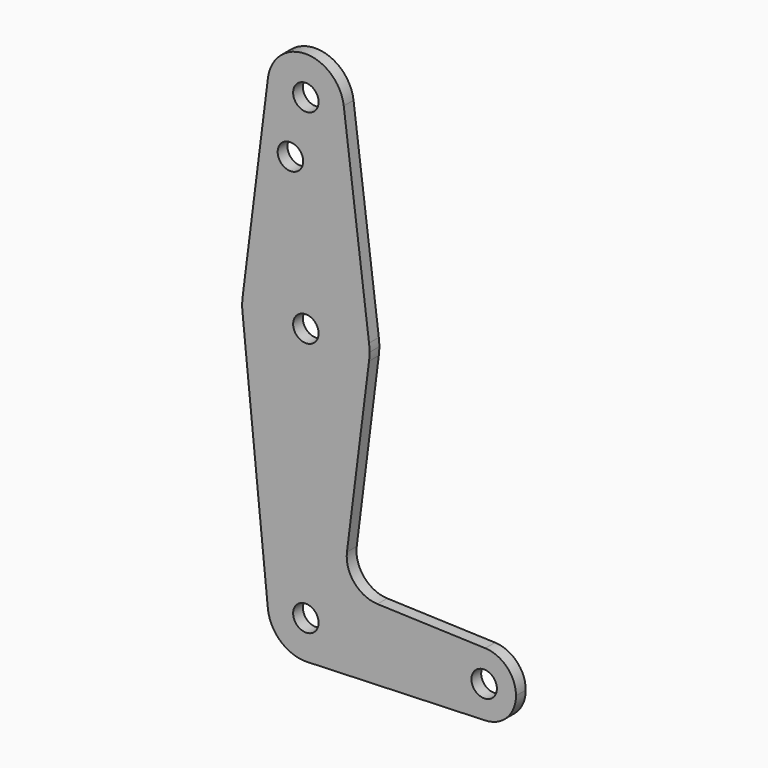
from build123d import *

# Parameters (mm, degrees)
F0_R     = 3.175
F1_DEPTH = 3.048


with BuildPart() as f1:
    # F0 (on Front) → F1 (new body)
    with BuildSketch(Plane.XZ):
        with BuildLine():
            ThreePointArc((-27.487503, 57.257114), (-37.608986, 47.75081), (-46.462796, 58.447739))
            Line((-46.462796, 58.447739), (-52.762991, 8.441489))
            ThreePointArc((-52.762991, 8.441489), (-37.012503, 22.332114), (-21.262015, 8.441489))
            Line((-21.262015, 8.441489), (-27.56221, 58.447739))
            ThreePointArc((-27.56221, 58.447739), (-27.506198, 57.853598), (-27.487503, 57.257114))
        make_face()
        with Locations((-40.86617, 42.982314)):
            Circle(F0_R, mode=Mode.SUBTRACT)
        with BuildLine():
            ThreePointArc((-21.262015, 8.441489), (-37.012503, 22.332114), (-52.762991, 8.441489))
            ThreePointArc((-52.762991, 8.441489), (-52.887503, 6.457114), (-52.762991, 4.472739))
            ThreePointArc((-52.762991, 4.472739), (-37.012503, -9.417886), (-21.262015, 4.472739))
            ThreePointArc((-21.262015, 4.472739), (-21.168661, 5.462976), (-21.137503, 6.457114))
            ThreePointArc((-21.137503, 6.457114), (-21.168661, 7.451253), (-21.262015, 8.441489))
        make_face()
        with Locations((-37.012503, 6.457114)):
            Circle(F0_R, mode=Mode.SUBTRACT)
        with BuildLine():
            ThreePointArc((-27.56221, 58.447739), (-37.012503, 66.782114), (-46.462796, 58.447739))
            ThreePointArc((-46.462796, 58.447739), (-37.608986, 47.75081), (-27.487503, 57.257114))
            ThreePointArc((-27.487503, 57.257114), (-27.506198, 57.853598), (-27.56221, 58.447739))
        make_face()
        with Locations((-37.012503, 57.257114)):
            Circle(F0_R, mode=Mode.SUBTRACT)
        with BuildLine():
            ThreePointArc((-21.262015, 4.472739), (-37.012503, -9.417886), (-52.762991, 4.472739))
            Line((-52.762991, 4.472739), (-46.489834, -57.994627))
            ThreePointArc((-46.489834, -57.994627), (-37.48897, -47.52981), (-27.487503, -57.042886))
            ThreePointArc((-27.487503, -57.042886), (-30.158095, -63.656713), (-36.672324, -66.561809))
            Line((-36.672324, -66.561809), (7.719902, -64.97536))
            ThreePointArc((7.719902, -64.97536), (-0.500003, -57.042886), (7.719902, -49.110411))
            Line((7.719902, -49.110411), (-19.161099, -48.153416))
            ThreePointArc((-19.161099, -48.153416), (-24.933509, -45.359892), (-26.766086, -39.214475))
            Line((-26.766086, -39.214475), (-21.262015, 4.472739))
        make_face()
        with BuildLine():
            ThreePointArc((-27.487503, -57.042886), (-37.48897, -47.52981), (-46.489834, -57.994627))
            ThreePointArc((-46.489834, -57.994627), (-43.275174, -64.219555), (-36.672324, -66.561809))
            ThreePointArc((-36.672324, -66.561809), (-30.158095, -63.656713), (-27.487503, -57.042886))
        make_face()
        with Locations((-37.012503, -57.042886)):
            Circle(F0_R, mode=Mode.SUBTRACT)
        with BuildLine():
            ThreePointArc((7.719902, -49.110411), (-0.500003, -57.042886), (7.719902, -64.97536))
            ThreePointArc((7.719902, -64.97536), (13.14913, -62.554796), (15.374997, -57.042886))
            ThreePointArc((15.374997, -57.042886), (13.14913, -51.530975), (7.719902, -49.110411))
        make_face()
        with Locations((7.437497, -57.042886)):
            Circle(F0_R, mode=Mode.SUBTRACT)
    extrude(amount=F1_DEPTH)


solid = f1.part
